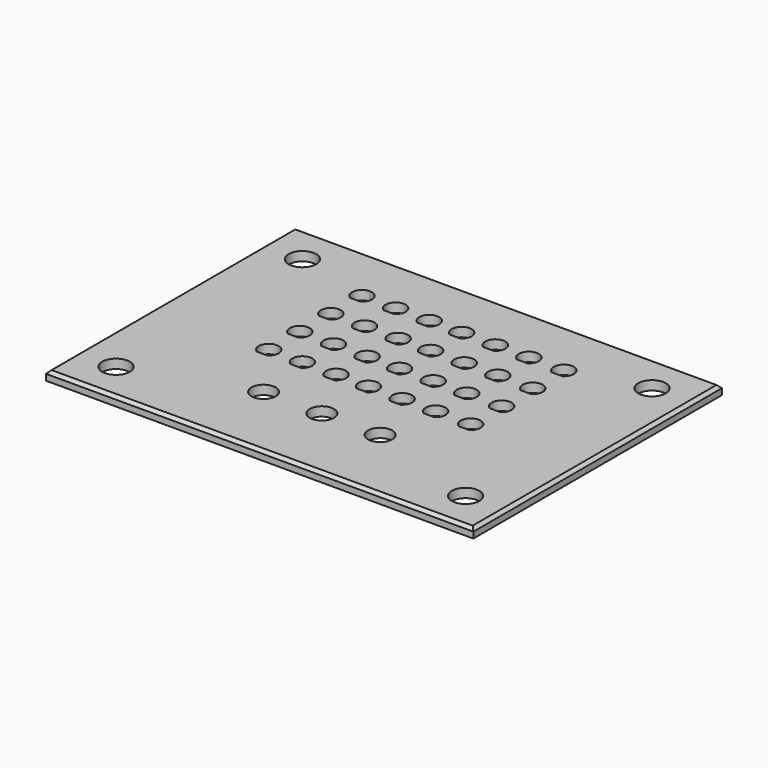
from build123d import *

# Parameters (mm, degrees)
F0_W     = 139.7
F0_H     = 101.6
F0_R     = 4.5
F0_R_2   = 3.97
F1_DEPTH = 3
F2_SIZE  = 1


with BuildPart() as f1:
    # F0 (on Top) → F1 (new body)
    with BuildSketch(Plane.XY):
        Rectangle(F0_W, F0_H)
        with Locations((-57.15, -38.1)):
            Circle(F0_R, mode=Mode.SUBTRACT)
        with Locations((-19.05, -25.4)):
            Circle(F0_R_2, mode=Mode.SUBTRACT)
        with BuildLine():
            ThreePointArc((-34.335, -9.101291), (-34.176623, -3.505268), (-29.355, -6.35))
            ThreePointArc((-29.355, -6.35), (-29.760268, -7.921623), (-30.875, -9.101291))
            ThreePointArc((-30.875, -9.101291), (-32.605, -9.6), (-34.335, -9.101291))
        make_face(mode=Mode.SUBTRACT)
        with BuildLine():
            ThreePointArc((-23.335, -9.101291), (-23.176623, -3.505268), (-18.355, -6.35))
            ThreePointArc((-18.355, -6.35), (-18.760268, -7.921623), (-19.875, -9.101291))
            ThreePointArc((-19.875, -9.101291), (-21.605, -9.6), (-23.335, -9.101291))
        make_face(mode=Mode.SUBTRACT)
        with BuildLine():
            ThreePointArc((-12.335, -9.101291), (-12.176623, -3.505268), (-7.355, -6.35))
            ThreePointArc((-7.355, -6.35), (-7.760268, -7.921623), (-8.875, -9.101291))
            ThreePointArc((-8.875, -9.101291), (-10.605, -9.6), (-12.335, -9.101291))
        make_face(mode=Mode.SUBTRACT)
        with Locations((0, -25.4)):
            Circle(F0_R_2, mode=Mode.SUBTRACT)
        with Locations((19.05, -25.4)):
            Circle(F0_R_2, mode=Mode.SUBTRACT)
        with Locations((57.15, -38.1)):
            Circle(F0_R, mode=Mode.SUBTRACT)
        with BuildLine():
            ThreePointArc((-1.73, -9.101291), (-1.571623, -3.505268), (3.25, -6.35))
            ThreePointArc((3.25, -6.35), (2.844732, -7.921623), (1.73, -9.101291))
            ThreePointArc((1.73, -9.101291), (0, -9.6), (-1.73, -9.101291))
        make_face(mode=Mode.SUBTRACT)
        with BuildLine():
            ThreePointArc((9.27, -9.101291), (9.428377, -3.505268), (14.25, -6.35))
            ThreePointArc((14.25, -6.35), (13.844732, -7.921623), (12.73, -9.101291))
            ThreePointArc((12.73, -9.101291), (11, -9.6), (9.27, -9.101291))
        make_face(mode=Mode.SUBTRACT)
        with BuildLine():
            ThreePointArc((20.232872, -9.101291), (20.391248, -3.505268), (25.212872, -6.35))
            ThreePointArc((25.212872, -6.35), (24.807604, -7.921623), (23.692872, -9.101291))
            ThreePointArc((23.692872, -9.101291), (21.962872, -9.6), (20.232872, -9.101291))
        make_face(mode=Mode.SUBTRACT)
        with BuildLine():
            ThreePointArc((31.665, -9.101291), (31.823377, -3.505268), (36.645, -6.35))
            ThreePointArc((36.645, -6.35), (36.239732, -7.921623), (35.125, -9.101291))
            ThreePointArc((35.125, -9.101291), (33.395, -9.6), (31.665, -9.101291))
        make_face(mode=Mode.SUBTRACT)
        with BuildLine():
            ThreePointArc((-34.335, 3.598709), (-34.176623, 9.194732), (-29.355, 6.35))
            ThreePointArc((-29.355, 6.35), (-29.760268, 4.778377), (-30.875, 3.598709))
            ThreePointArc((-30.875, 3.598709), (-32.605, 3.1), (-34.335, 3.598709))
        make_face(mode=Mode.SUBTRACT)
        with BuildLine():
            ThreePointArc((-23.335, 3.598709), (-23.176623, 9.194732), (-18.355, 6.35))
            ThreePointArc((-18.355, 6.35), (-18.760268, 4.778377), (-19.875, 3.598709))
            ThreePointArc((-19.875, 3.598709), (-21.605, 3.1), (-23.335, 3.598709))
        make_face(mode=Mode.SUBTRACT)
        with BuildLine():
            ThreePointArc((-12.335, 3.598709), (-12.176623, 9.194732), (-7.355, 6.35))
            ThreePointArc((-7.355, 6.35), (-7.760268, 4.778377), (-8.875, 3.598709))
            ThreePointArc((-8.875, 3.598709), (-10.605, 3.1), (-12.335, 3.598709))
        make_face(mode=Mode.SUBTRACT)
        with BuildLine():
            ThreePointArc((-34.335, 16.298709), (-34.176623, 21.894732), (-29.355, 19.05))
            ThreePointArc((-29.355, 19.05), (-29.760268, 17.478377), (-30.875, 16.298709))
            ThreePointArc((-30.875, 16.298709), (-32.605, 15.8), (-34.335, 16.298709))
        make_face(mode=Mode.SUBTRACT)
        with BuildLine():
            ThreePointArc((-23.335, 16.298709), (-23.176623, 21.894732), (-18.355, 19.05))
            ThreePointArc((-18.355, 19.05), (-18.760268, 17.478377), (-19.875, 16.298709))
            ThreePointArc((-19.875, 16.298709), (-21.605, 15.8), (-23.335, 16.298709))
        make_face(mode=Mode.SUBTRACT)
        with BuildLine():
            ThreePointArc((-12.335, 16.298709), (-12.176623, 21.894732), (-7.355, 19.05))
            ThreePointArc((-7.355, 19.05), (-7.760268, 17.478377), (-8.875, 16.298709))
            ThreePointArc((-8.875, 16.298709), (-10.605, 15.8), (-12.335, 16.298709))
        make_face(mode=Mode.SUBTRACT)
        with Locations((-57.15, 38.1)):
            Circle(F0_R, mode=Mode.SUBTRACT)
        with BuildLine():
            ThreePointArc((-32.605, 35), (-30.306903, 34.048097), (-29.355, 31.75))
            ThreePointArc((-29.355, 31.75), (-29.759682, 30.179437), (-30.872949, 29))
            ThreePointArc((-30.872949, 29), (-32.605, 28.5), (-34.337051, 29))
            ThreePointArc((-34.337051, 29), (-35.727499, 32.651388), (-32.605, 35))
        make_face(mode=Mode.SUBTRACT)
        with BuildLine():
            ThreePointArc((-23.335, 28.998709), (-23.176623, 34.594732), (-18.355, 31.75))
            ThreePointArc((-18.355, 31.75), (-18.760268, 30.178377), (-19.875, 28.998709))
            ThreePointArc((-19.875, 28.998709), (-21.605, 28.5), (-23.335, 28.998709))
        make_face(mode=Mode.SUBTRACT)
        with BuildLine():
            ThreePointArc((-12.335, 28.998709), (-12.176623, 34.594732), (-7.355, 31.75))
            ThreePointArc((-7.355, 31.75), (-7.760268, 30.178377), (-8.875, 28.998709))
            ThreePointArc((-8.875, 28.998709), (-10.605, 28.5), (-12.335, 28.998709))
        make_face(mode=Mode.SUBTRACT)
        with BuildLine():
            ThreePointArc((-1.73, 3.598709), (-1.571623, 9.194732), (3.25, 6.35))
            ThreePointArc((3.25, 6.35), (2.844732, 4.778377), (1.73, 3.598709))
            ThreePointArc((1.73, 3.598709), (0, 3.1), (-1.73, 3.598709))
        make_face(mode=Mode.SUBTRACT)
        with BuildLine():
            ThreePointArc((9.27, 3.598709), (9.428377, 9.194732), (14.25, 6.35))
            ThreePointArc((14.25, 6.35), (13.844732, 4.778377), (12.73, 3.598709))
            ThreePointArc((12.73, 3.598709), (11, 3.1), (9.27, 3.598709))
        make_face(mode=Mode.SUBTRACT)
        with BuildLine():
            ThreePointArc((20.232872, 3.598709), (20.391248, 9.194732), (25.212872, 6.35))
            ThreePointArc((25.212872, 6.35), (24.807604, 4.778377), (23.692872, 3.598709))
            ThreePointArc((23.692872, 3.598709), (21.962872, 3.1), (20.232872, 3.598709))
        make_face(mode=Mode.SUBTRACT)
        with BuildLine():
            ThreePointArc((31.665, 3.598709), (31.823377, 9.194732), (36.645, 6.35))
            ThreePointArc((36.645, 6.35), (36.239732, 4.778377), (35.125, 3.598709))
            ThreePointArc((35.125, 3.598709), (33.395, 3.1), (31.665, 3.598709))
        make_face(mode=Mode.SUBTRACT)
        with BuildLine():
            ThreePointArc((-1.73, 16.298709), (-1.571623, 21.894732), (3.25, 19.05))
            ThreePointArc((3.25, 19.05), (2.844732, 17.478377), (1.73, 16.298709))
            ThreePointArc((1.73, 16.298709), (0, 15.8), (-1.73, 16.298709))
        make_face(mode=Mode.SUBTRACT)
        with BuildLine():
            ThreePointArc((9.27, 16.298709), (9.428377, 21.894732), (14.25, 19.05))
            ThreePointArc((14.25, 19.05), (13.844732, 17.478377), (12.73, 16.298709))
            ThreePointArc((12.73, 16.298709), (11, 15.8), (9.27, 16.298709))
        make_face(mode=Mode.SUBTRACT)
        with BuildLine():
            ThreePointArc((20.232872, 16.298709), (20.391248, 21.894732), (25.212872, 19.05))
            ThreePointArc((25.212872, 19.05), (24.807604, 17.478377), (23.692872, 16.298709))
            ThreePointArc((23.692872, 16.298709), (21.962872, 15.8), (20.232872, 16.298709))
        make_face(mode=Mode.SUBTRACT)
        with BuildLine():
            ThreePointArc((31.665, 16.298709), (31.823377, 21.894732), (36.645, 19.05))
            ThreePointArc((36.645, 19.05), (36.239732, 17.478377), (35.125, 16.298709))
            ThreePointArc((35.125, 16.298709), (33.395, 15.8), (31.665, 16.298709))
        make_face(mode=Mode.SUBTRACT)
        with BuildLine():
            ThreePointArc((-1.73, 28.998709), (-1.571623, 34.594732), (3.25, 31.75))
            ThreePointArc((3.25, 31.75), (2.844732, 30.178377), (1.73, 28.998709))
            ThreePointArc((1.73, 28.998709), (0, 28.5), (-1.73, 28.998709))
        make_face(mode=Mode.SUBTRACT)
        with BuildLine():
            ThreePointArc((9.27, 28.998709), (9.428377, 34.594732), (14.25, 31.75))
            ThreePointArc((14.25, 31.75), (13.844732, 30.178377), (12.73, 28.998709))
            ThreePointArc((12.73, 28.998709), (11, 28.5), (9.27, 28.998709))
        make_face(mode=Mode.SUBTRACT)
        with BuildLine():
            ThreePointArc((20.232872, 28.998709), (20.391248, 34.594732), (25.212872, 31.75))
            ThreePointArc((25.212872, 31.75), (24.807604, 30.178377), (23.692872, 28.998709))
            ThreePointArc((23.692872, 28.998709), (21.962872, 28.5), (20.232872, 28.998709))
        make_face(mode=Mode.SUBTRACT)
        with BuildLine():
            ThreePointArc((31.665, 28.998709), (31.823377, 34.594732), (36.645, 31.75))
            ThreePointArc((36.645, 31.75), (36.239732, 30.178377), (35.125, 28.998709))
            ThreePointArc((35.125, 28.998709), (33.395, 28.5), (31.665, 28.998709))
        make_face(mode=Mode.SUBTRACT)
        with Locations((57.15, 38.1)):
            Circle(F0_R, mode=Mode.SUBTRACT)
        with BuildLine():
            Line((-30.875, 16.298709), (-34.335, 16.298709))
            ThreePointArc((-34.335, 16.298709), (-32.605, 15.8), (-30.875, 16.298709))
        make_face()
        with BuildLine():
            Line((-19.875, 16.298709), (-23.335, 16.298709))
            ThreePointArc((-23.335, 16.298709), (-21.605, 15.8), (-19.875, 16.298709))
        make_face()
        with BuildLine():
            Line((-8.875, 16.298709), (-12.335, 16.298709))
            ThreePointArc((-12.335, 16.298709), (-10.605, 15.8), (-8.875, 16.298709))
        make_face()
        with BuildLine():
            Line((-30.875, 3.598709), (-34.335, 3.598709))
            ThreePointArc((-34.335, 3.598709), (-32.605, 3.1), (-30.875, 3.598709))
        make_face()
        with BuildLine():
            Line((-19.875, 3.598709), (-23.335, 3.598709))
            ThreePointArc((-23.335, 3.598709), (-21.605, 3.1), (-19.875, 3.598709))
        make_face()
        with BuildLine():
            Line((-8.875, 3.598709), (-12.335, 3.598709))
            ThreePointArc((-12.335, 3.598709), (-10.605, 3.1), (-8.875, 3.598709))
        make_face()
        with BuildLine():
            Line((1.73, 16.298709), (-1.73, 16.298709))
            ThreePointArc((-1.73, 16.298709), (0, 15.8), (1.73, 16.298709))
        make_face()
        with BuildLine():
            Line((1.73, 3.598709), (-1.73, 3.598709))
            ThreePointArc((-1.73, 3.598709), (0, 3.1), (1.73, 3.598709))
        make_face()
        with BuildLine():
            Line((12.73, 3.598709), (9.27, 3.598709))
            ThreePointArc((9.27, 3.598709), (11, 3.1), (12.73, 3.598709))
        make_face()
        with BuildLine():
            Line((12.73, 16.298709), (9.27, 16.298709))
            ThreePointArc((9.27, 16.298709), (11, 15.8), (12.73, 16.298709))
        make_face()
        with BuildLine():
            Line((23.692872, 16.298709), (20.232872, 16.298709))
            ThreePointArc((20.232872, 16.298709), (21.962872, 15.8), (23.692872, 16.298709))
        make_face()
        with BuildLine():
            Line((23.692872, 3.598709), (20.232872, 3.598709))
            ThreePointArc((20.232872, 3.598709), (21.962872, 3.1), (23.692872, 3.598709))
        make_face()
        with BuildLine():
            Line((35.125, 16.298709), (31.665, 16.298709))
            ThreePointArc((31.665, 16.298709), (33.395, 15.8), (35.125, 16.298709))
        make_face()
        with BuildLine():
            Line((35.125, 3.598709), (31.665, 3.598709))
            ThreePointArc((31.665, 3.598709), (33.395, 3.1), (35.125, 3.598709))
        make_face()
        with BuildLine():
            Line((34.606364, -9.101291), (31.665, -9.101291))
            ThreePointArc((31.665, -9.101291), (33.395, -9.6), (35.125, -9.101291))
            Line((35.125, -9.101291), (34.606364, -9.101291))
        make_face()
        with BuildLine():
            Line((23.692872, -9.101291), (20.232872, -9.101291))
            ThreePointArc((20.232872, -9.101291), (21.962872, -9.6), (23.692872, -9.101291))
        make_face()
        with BuildLine():
            Line((12.73, -9.101291), (9.27, -9.101291))
            ThreePointArc((9.27, -9.101291), (11, -9.6), (12.73, -9.101291))
        make_face()
        with BuildLine():
            Line((1.73, -9.101291), (-1.73, -9.101291))
            ThreePointArc((-1.73, -9.101291), (0, -9.6), (1.73, -9.101291))
        make_face()
        with BuildLine():
            Line((-8.875, -9.101291), (-12.335, -9.101291))
            ThreePointArc((-12.335, -9.101291), (-10.605, -9.6), (-8.875, -9.101291))
        make_face()
        with BuildLine():
            Line((-19.875, -9.101291), (-23.335, -9.101291))
            ThreePointArc((-23.335, -9.101291), (-21.605, -9.6), (-19.875, -9.101291))
        make_face()
        with BuildLine():
            Line((-30.875, -9.101291), (-34.335, -9.101291))
            ThreePointArc((-34.335, -9.101291), (-32.605, -9.6), (-30.875, -9.101291))
        make_face()
        with BuildLine():
            ThreePointArc((-34.337051, 29), (-32.605, 28.5), (-30.872949, 29))
            Line((-30.872949, 29), (-34.337051, 29))
        make_face()
        with BuildLine():
            Line((-19.875, 28.998709), (-23.335, 28.998709))
            ThreePointArc((-23.335, 28.998709), (-21.605, 28.5), (-19.875, 28.998709))
        make_face()
        with BuildLine():
            Line((-8.875, 28.998709), (-12.335, 28.998709))
            ThreePointArc((-12.335, 28.998709), (-10.605, 28.5), (-8.875, 28.998709))
        make_face()
        with BuildLine():
            Line((1.73, 28.998709), (-1.73, 28.998709))
            ThreePointArc((-1.73, 28.998709), (0, 28.5), (1.73, 28.998709))
        make_face()
        with BuildLine():
            Line((12.73, 28.998709), (9.27, 28.998709))
            ThreePointArc((9.27, 28.998709), (11, 28.5), (12.73, 28.998709))
        make_face()
        with BuildLine():
            Line((23.692872, 28.998709), (20.232872, 28.998709))
            ThreePointArc((20.232872, 28.998709), (21.962872, 28.5), (23.692872, 28.998709))
        make_face()
        with BuildLine():
            Line((35.125, 28.998709), (31.665, 28.998709))
            ThreePointArc((31.665, 28.998709), (33.395, 28.5), (35.125, 28.998709))
        make_face()
    extrude(amount=F1_DEPTH)

    # F2
    f2_edges = [f1.edges().sort_by_distance(p)[0] for p in [
        (0, 50.8, 3),
        (-69.85, 0, 3),
        (69.85, 0, 3),
        (0, -50.8, 3),
    ]]
    chamfer(f2_edges, length=F2_SIZE)


solid = f1.part
